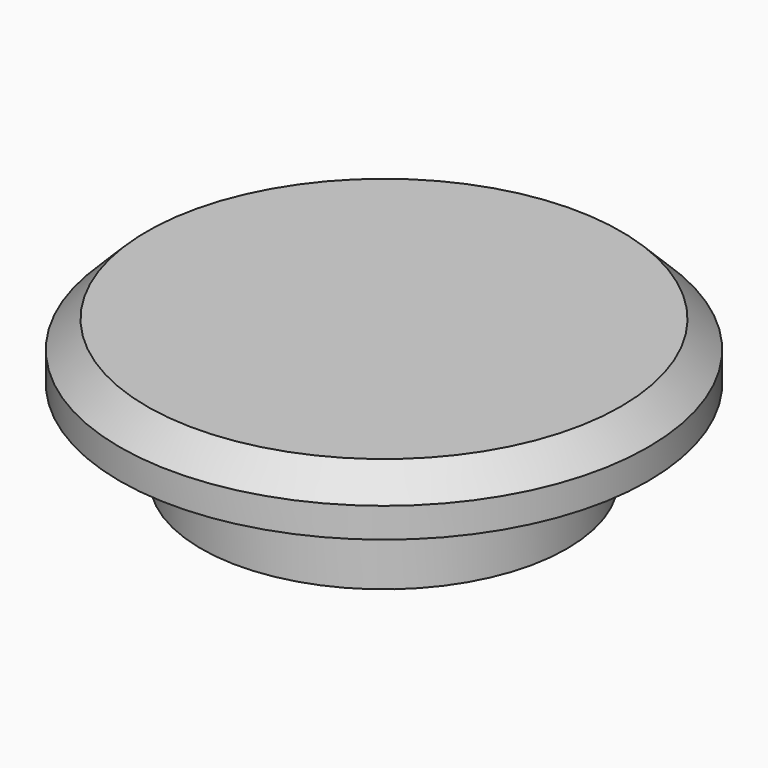
from build123d import *

# Parameters (mm, degrees)
F0_R     = 6.75
F1_DEPTH = 3.175
F2_R     = 9.75
F3_DEPTH = 2.1
F4_SIZE  = 1
F5_T     = -2


with BuildPart() as f1:
    # F0 (on Top) → F1 (new body)
    with BuildSketch(Plane.XY):
        Circle(F0_R)
    extrude(amount=F1_DEPTH)

    # F2 (on face) → F3 (join)
    with BuildSketch(Plane.XY.offset(3.175)):
        Circle(F2_R)
    extrude(amount=F3_DEPTH)

    # F4
    f4_edges = [f1.edges().sort_by_distance(p)[0] for p in [
        (-9.75, 0, 5.275),
    ]]
    chamfer(f4_edges, length=F4_SIZE)

    # F5
    f5_openings = [f1.faces().sort_by_distance(p)[0] for p in [
        (0, 0, 0),
    ]]
    offset(amount=F5_T, openings=f5_openings, kind=Kind.INTERSECTION)


solid = f1.part
